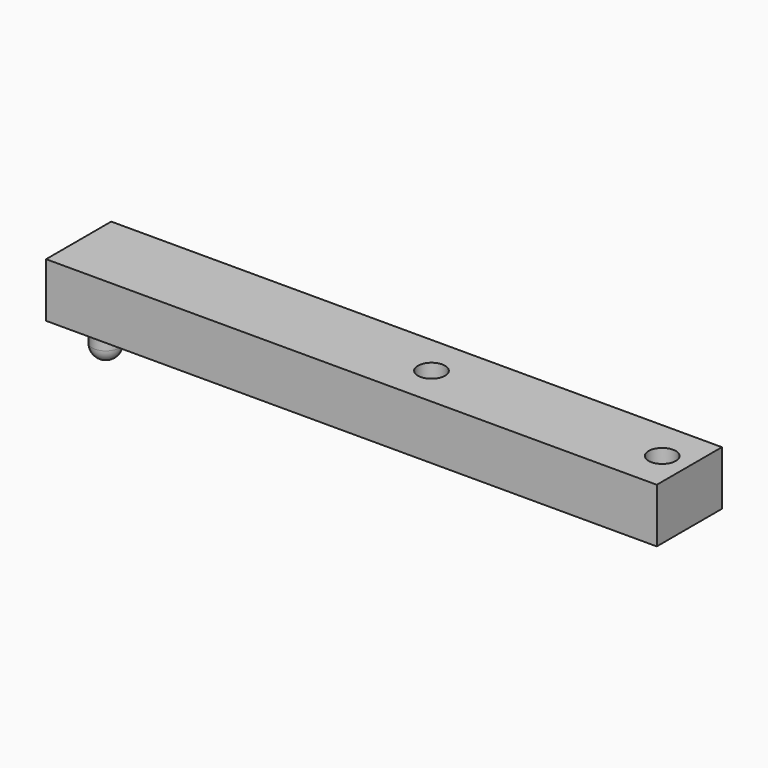
from build123d import *

# Parameters (mm, degrees)
F0_W     = 52.5
F0_H     = 15
F1_DEPTH = 10
F2_R     = 2.5
F3_DEPTH = 25
F4_W     = 15
F4_H     = 10
F5_DEPTH = 60
F6_R     = 2.5
F7_DEPTH = 5


with BuildPart() as f1:
    # F0 (on Top) → F1 (new body)
    with BuildSketch(Plane.XY):
        with Locations((-36.5180644393, 6.5659499308)):
            Rectangle(F0_W, F0_H)
    extrude(amount=F1_DEPTH)

    # F2 (on face) → F3 (cut)
    with BuildSketch(Plane.XY.offset(10)):
        with Locations((-15.2680644393, 6.5659499308)):
            Circle(F2_R)
        with Locations((-57.7680644393, 6.5659499308)):
            Circle(F2_R)
    extrude(amount=-F3_DEPTH, mode=Mode.SUBTRACT)

    # F4 (on face) → F5 (join)
    with BuildSketch(Plane(origin=(-62.7680644393, 0, 0), x_dir=(0, -1, 0), z_dir=(-1, 0, 0))):
        with Locations((-6.5659499308, 5)):
            Rectangle(F4_W, F4_H)
    extrude(amount=F5_DEPTH)

    # F6 (on face) → F7 (join)
    with BuildSketch(Plane(origin=(0, 0, 0), x_dir=(1, 0, 0), z_dir=(0, 0, -1))):
        with Locations((-117.7680644393, -6.5659499308)):
            Circle(F6_R)
    extrude(amount=F7_DEPTH)

    # F10 (on offset) → F11 (revolve)
    with BuildSketch(Plane(origin=(-117.7680644393, 0, 0), x_dir=(0, -1, 0), z_dir=(-1, 0, 0))):
        with BuildLine():
            Line((-6.5659499308, -5), (-9.0659499308, -5))
            ThreePointArc((-9.0659499308, -5), (-8.3337168838, -6.767766953), (-6.5659499308, -7.5))
            Line((-6.5659499308, -7.5), (-6.5659499308, -5))
        make_face()
    revolve(axis=Axis((-117.7680644393, 6.5659499308, -6.25), (0, 0, -1)))


solid = f1.part
